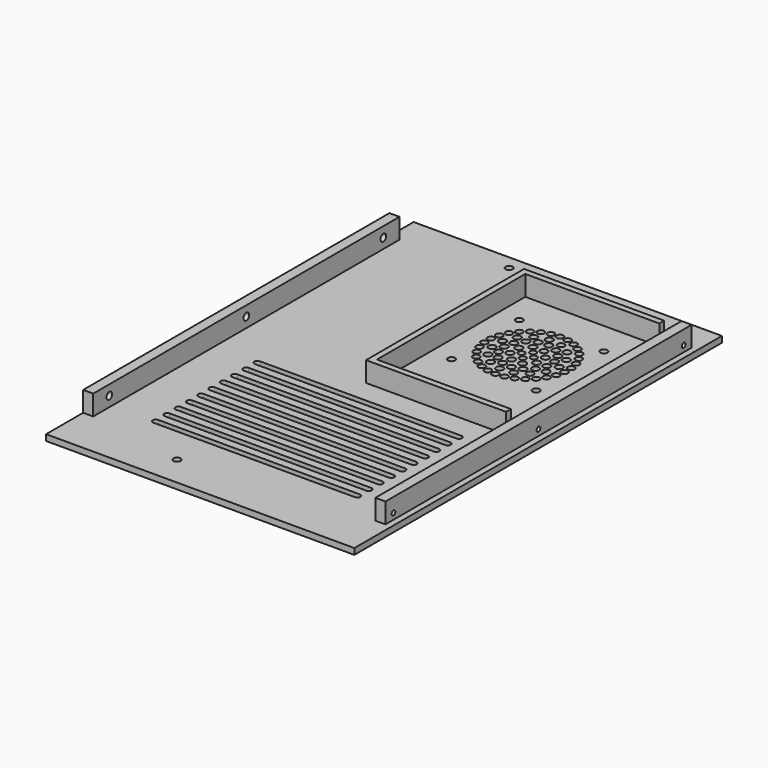
from build123d import *

# Parameters (mm, degrees)
SKETCH_W        = 153
SKETCH_H        = 228
SKETCH_R        = 1.75
PAD_DEPTH       = 3
SKETCH001_W     = 5
SKETCH001_H     = 190
PAD001_DEPTH    = 10
SKETCH002_R     = 1.75
POCKET_DEPTH    = 5
SKETCH003_R     = 1.15
POCKET001_DEPTH = 5
SKETCH005_R     = 1.8
SKETCH005_R_2   = 1.7
SKETCH005_R_3   = 1.75
SKETCH005_R_4   = 1.6
POCKET002_DEPTH = 5


with BuildPart() as part:
    # Sketch → Pad (new body)
    with BuildSketch(Plane.XY):
        with Locations((0, -4)):
            Rectangle(SKETCH_W, SKETCH_H)
        with Locations((-23.5, 103)):
            Circle(SKETCH_R, mode=Mode.SUBTRACT)
        with Locations((-23.5, -103)):
            Circle(SKETCH_R, mode=Mode.SUBTRACT)
        with BuildLine():
            ThreePointArc((-50, -18.5), (-51.5, -20), (-50, -21.5))
            Line((-50, -21.5), (50, -21.5))
            ThreePointArc((50, -21.5), (51.5, -20), (50, -18.5))
            Line((-50, -18.5), (50, -18.5))
        make_face(mode=Mode.SUBTRACT)
        with BuildLine():
            ThreePointArc((-50, -25.5), (-51.5, -27), (-50, -28.5))
            Line((-50, -28.5), (50, -28.5))
            ThreePointArc((50, -28.5), (51.5, -27), (50, -25.5))
            Line((-50, -25.5), (50, -25.5))
        make_face(mode=Mode.SUBTRACT)
        with BuildLine():
            ThreePointArc((-50, -32.5), (-51.5, -34), (-50, -35.5))
            Line((-50, -35.5), (50, -35.5))
            ThreePointArc((50, -35.5), (51.5, -34), (50, -32.5))
            Line((-50, -32.5), (50, -32.5))
        make_face(mode=Mode.SUBTRACT)
        with BuildLine():
            ThreePointArc((-50, -39.5), (-51.5, -41), (-50, -42.5))
            Line((-50, -42.5), (50, -42.5))
            ThreePointArc((50, -42.5), (51.5, -41), (50, -39.5))
            Line((-50, -39.5), (50, -39.5))
        make_face(mode=Mode.SUBTRACT)
        with BuildLine():
            ThreePointArc((-50, -46.5), (-51.5, -48), (-50, -49.5))
            Line((-50, -49.5), (50, -49.5))
            ThreePointArc((50, -49.5), (51.5, -48), (50, -46.5))
            Line((-50, -46.5), (50, -46.5))
        make_face(mode=Mode.SUBTRACT)
        with BuildLine():
            ThreePointArc((-50, -53.5), (-51.5, -55), (-50, -56.5))
            Line((-50, -56.5), (50, -56.5))
            ThreePointArc((50, -56.5), (51.5, -55), (50, -53.5))
            Line((-50, -53.5), (50, -53.5))
        make_face(mode=Mode.SUBTRACT)
        with BuildLine():
            ThreePointArc((-50, -60.5), (-51.5, -62), (-50, -63.5))
            Line((-50, -63.5), (50, -63.5))
            ThreePointArc((50, -63.5), (51.5, -62), (50, -60.5))
            Line((-50, -60.5), (50, -60.5))
        make_face(mode=Mode.SUBTRACT)
        with BuildLine():
            ThreePointArc((-50, -67.5), (-51.5, -69), (-50, -70.5))
            Line((-50, -70.5), (50, -70.5))
            ThreePointArc((50, -70.5), (51.5, -69), (50, -67.5))
            Line((-50, -67.5), (50, -67.5))
        make_face(mode=Mode.SUBTRACT)
        with BuildLine():
            ThreePointArc((-50, -74.5), (-51.5, -76), (-50, -77.5))
            Line((-50, -77.5), (50, -77.5))
            ThreePointArc((50, -77.5), (51.5, -76), (50, -74.5))
            Line((-50, -74.5), (50, -74.5))
        make_face(mode=Mode.SUBTRACT)
        with BuildLine():
            ThreePointArc((-50, -81.5), (-51.5, -83), (-50, -84.5))
            Line((-50, -84.5), (50, -84.5))
            ThreePointArc((50, -84.5), (51.5, -83), (50, -81.5))
            Line((-50, -81.5), (50, -81.5))
        make_face(mode=Mode.SUBTRACT)
    extrude(amount=PAD_DEPTH)

    # Sketch001 → Pad001 (join)
    with BuildSketch(Plane.XY.offset(3)):
        with Locations((-74, 0)):
            Rectangle(SKETCH001_W, SKETCH001_H)
        with Locations((71, 0)):
            Rectangle(SKETCH001_W, SKETCH001_H)
        Polygon((63, 91), (-6.5, 91), (-6.5, -7), (63, -7), (63, -4), (-3.5, -4), (-3.5, 88), (63, 88), align=None)
    extrude(amount=PAD001_DEPTH)

    # Sketch002 → Pocket (cut)
    with BuildSketch(Plane.YZ.offset(-76.5)):
        with Locations((-85, 8)):
            Circle(SKETCH002_R)
        with Locations((0, 8)):
            Circle(SKETCH002_R)
        with Locations((85, 8)):
            Circle(SKETCH002_R)
    extrude(amount=POCKET_DEPTH, mode=Mode.SUBTRACT)

    # Sketch003 → Pocket001 (cut)
    with BuildSketch(Plane.YZ.offset(73.5)):
        with Locations((-90, 6)):
            Circle(SKETCH003_R)
        with Locations((0, 6)):
            Circle(SKETCH003_R)
        with Locations((90, 6)):
            Circle(SKETCH003_R)
    extrude(amount=-POCKET001_DEPTH, mode=Mode.SUBTRACT)

    # Sketch005 → Pocket002 (cut)
    with BuildSketch(Plane(origin=(40, 60, 0), x_dir=(1, 0, 0), z_dir=(0, 0, 1))):
        with Locations((-13.721043, 5.674388)):
            Circle(SKETCH005_R)
        with Locations((-16.264029, 9.856091)):
            Circle(SKETCH005_R_2)
        with Locations((-15.773102, 1.367326)):
            Circle(SKETCH005_R)
        with Locations((-20.239142, 8.564048)):
            Circle(SKETCH005_R_2)
        with Locations((-19.837396, 3.687065)):
            Circle(SKETCH005_R)
        with Locations((-23.860114, 6.473479)):
            Circle(SKETCH005_R_2)
        with Locations((-14.849041, -3.103349)):
            Circle(SKETCH005_R)
        with Locations((-19.949988, -1.072984)):
            Circle(SKETCH005_R)
        with Locations((-26.967306, 3.675751)):
            Circle(SKETCH005_R_2)
        with Locations((-24.616644, -0.61619)):
            Circle(SKETCH005_R)
        with Locations((-29.424917, 0.293139)):
            Circle(SKETCH005_R_2)
        with Locations((-18.714545, -6.978221)):
            Circle(SKETCH005_R)
        with Locations((-22.777848, -4.997866)):
            Circle(SKETCH005_R)
        with Locations((-31.125539, -3.526521)):
            Circle(SKETCH005_R_2)
        with Locations((-27.232413, -6.491304)):
            Circle(SKETCH005_R)
        with Locations((-31.994847, -7.616292)):
            Circle(SKETCH005_R_2)
        with Locations((-23.77044, -9.732446)):
            Circle(SKETCH005_R)
        with Locations((-31.994847, -11.79743)):
            Circle(SKETCH005_R_2)
        with Locations((-27.232413, -12.922418)):
            Circle(SKETCH005_R)
        with Locations((-31.125539, -15.887201)):
            Circle(SKETCH005_R_2)
        with Locations((-18.707921, -12.451493)):
            Circle(SKETCH005_R)
        with Locations((-22.75709, -14.462627)):
            Circle(SKETCH005_R)
        with Locations((-29.424917, -19.706861)):
            Circle(SKETCH005_R_2)
        with Locations((-24.616644, -18.797532)):
            Circle(SKETCH005_R)
        with Locations((-26.967306, -23.089473)):
            Circle(SKETCH005_R_2)
        with Locations((-19.912042, -18.375067)):
            Circle(SKETCH005_R)
        with Locations((-23.860114, -25.887201)):
            Circle(SKETCH005_R_2)
        with Locations((-19.837396, -23.100787)):
            Circle(SKETCH005_R)
        with Locations((-20.239142, -27.97777)):
            Circle(SKETCH005_R_2)
        with Locations((-9.359777, -16.310373)):
            Circle(SKETCH005_R)
        with Locations((-15.724492, -20.797034)):
            Circle(SKETCH005_R)
        with Locations((-16.262643, -29.269813)):
            Circle(SKETCH005_R_2)
        with Locations((-13.721043, -25.08811)):
            Circle(SKETCH005_R)
        with Locations((-12.104409, -29.706861)):
            Circle(SKETCH005_R_2)
        with Locations((-12.105765, 10.293139)):
            Circle(SKETCH005_R_2)
        with Locations((-33.104409, 11.293139)):
            Circle(SKETCH005_R_3)
        with Locations((-33.104409, -30.706861)):
            Circle(SKETCH005_R_3)
        with Locations((-15.178447, -9.706861)):
            Circle(SKETCH005_R_4)
        with Locations((-7.944789, 9.856091)):
            Circle(SKETCH005_R_2)
        with Locations((5.216099, 0.293139)):
            Circle(SKETCH005_R_2)
        with Locations((2.758488, 3.675751)):
            Circle(SKETCH005_R_2)
        with Locations((-0.348704, 6.473479)):
            Circle(SKETCH005_R_2)
        with Locations((-3.969676, 8.564048)):
            Circle(SKETCH005_R_2)
        with Locations((6.916721, -3.526521)):
            Circle(SKETCH005_R_2)
        with Locations((7.786029, -7.616292)):
            Circle(SKETCH005_R_2)
        with Locations((7.786029, -11.79743)):
            Circle(SKETCH005_R_2)
        with Locations((6.916721, -15.887201)):
            Circle(SKETCH005_R_2)
        with Locations((5.216099, -19.706861)):
            Circle(SKETCH005_R_2)
        with Locations((2.758488, -23.089473)):
            Circle(SKETCH005_R_2)
        with Locations((-0.348704, -25.887201)):
            Circle(SKETCH005_R_2)
        with Locations((-3.969676, -27.97777)):
            Circle(SKETCH005_R_2)
        with Locations((-7.946175, -29.269813)):
            Circle(SKETCH005_R_2)
        with Locations((-7.32516, 5.002154)):
            Circle(SKETCH005_R_2)
        with Locations((-1.755653, 1.786597)):
            Circle(SKETCH005_R)
        with Locations((2.02446, -3.416283)):
            Circle(SKETCH005_R)
        with Locations((2.02446, -15.997439)):
            Circle(SKETCH005_R)
        with Locations((-1.755653, -21.200319)):
            Circle(SKETCH005_R)
        with Locations((-7.32516, -24.415876)):
            Circle(SKETCH005_R)
        with Locations((-6.174191, 0.339504)):
            Circle(SKETCH005_R)
        with Locations((-2.608677, -2.92984)):
            Circle(SKETCH005_R)
        with Locations((-0.675929, -7.364473)):
            Circle(SKETCH005_R)
        with Locations((-0.708276, -12.201874)):
            Circle(SKETCH005_R)
        with Locations((-2.700157, -16.610264)):
            Circle(SKETCH005_R)
        with Locations((-6.309072, -19.831633)):
            Circle(SKETCH005_R)
        with Locations((-9.375769, -3.096725)):
            Circle(SKETCH005_R)
        with Locations((-5.500897, -6.962229)):
            Circle(SKETCH005_R)
        with Locations((-12.10507, -12.780899)):
            Circle(SKETCH005_R_4)
        with Locations((-5.494273, -12.435501)):
            Circle(SKETCH005_R)
        with Locations((-10.91448, -21.312075)):
            Circle(SKETCH005_R)
        with Locations((8.895591, 11.293139)):
            Circle(SKETCH005_R_3)
        with Locations((8.895591, -30.706861)):
            Circle(SKETCH005_R_3)
        with Locations((-14.833049, -16.316997)):
            Circle(SKETCH005_R)
        with Locations((-10.965395, 1.903461)):
            Circle(SKETCH005_R)
        with Locations((-11.931226, -6.594054)):
            Circle(SKETCH005_R_4)
        with Locations((-9.088884, -9.676053)):
            Circle(SKETCH005_R_4)
        with Locations((3.560039, -9.764024)):
            Circle(SKETCH005_R)
    extrude(amount=POCKET002_DEPTH, mode=Mode.SUBTRACT)


solid = part.part
